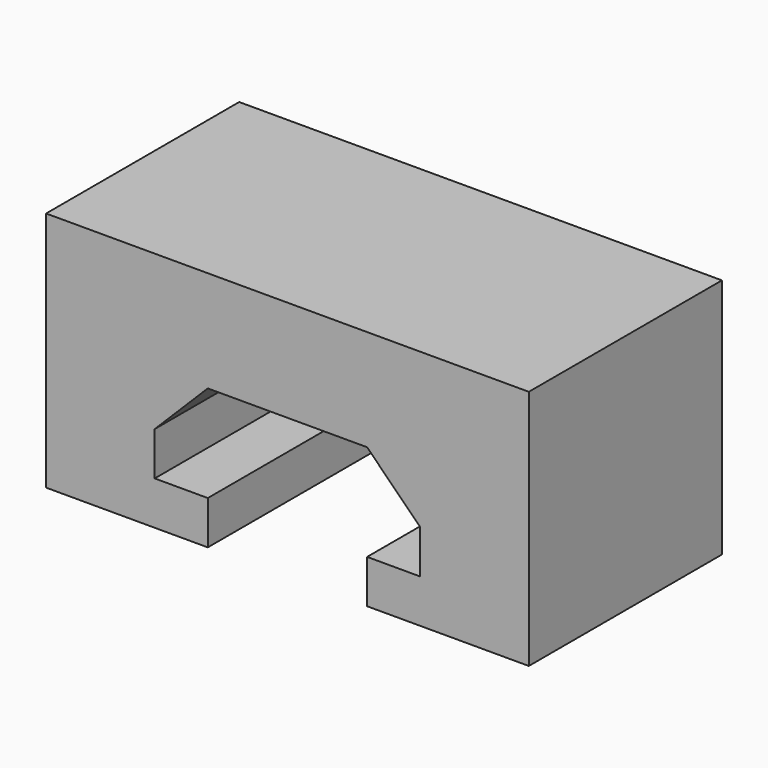
from build123d import *

# Parameters (mm, degrees)
SKETCH_W     = 20
SKETCH_H     = 10
PAD_DEPTH    = 10
POCKET_DEPTH = 10.001


with BuildPart() as part:
    # Sketch → Pad (new body)
    with BuildSketch(Plane.XZ):
        with Locations((0, 5)):
            Rectangle(SKETCH_W, SKETCH_H)
    extrude(amount=PAD_DEPTH)

    # Sketch001 (on Face6 of Pad) → Pocket (cut, through all)
    with BuildSketch(Plane.XZ.offset(10)):
        Polygon((-3.3, 0), (3.3, 0), (3.3, 1.8), (5.5, 1.8), (5.5, 3.6), (3.3, 5.8), (-3.3, 5.8), (-5.5, 3.6), (-5.5, 1.8), (-3.3, 1.8), align=None)
    extrude(amount=-POCKET_DEPTH, mode=Mode.SUBTRACT)


solid = part.part
